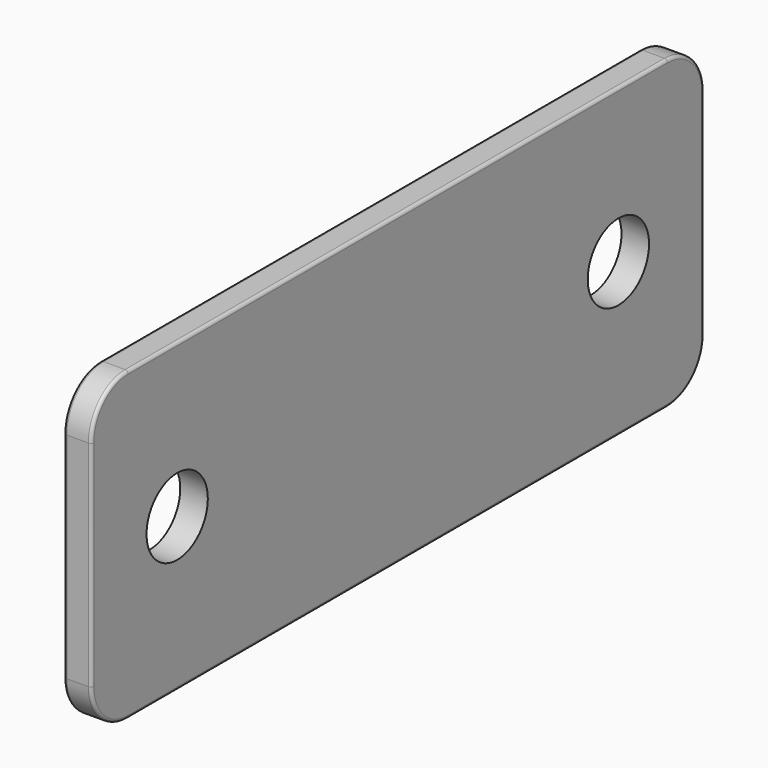
from build123d import *

# Parameters (mm, degrees)
F0_R     = 25
F1_DEPTH = 18
F2_R     = 2


with BuildPart() as f1:
    # F0 (on Right) → F1 (new body)
    with BuildSketch(Plane.YZ):
        with BuildLine():
            ThreePointArc((0, 30), (8.786797, 8.786797), (30, 0))
            Line((30, 0), (470, 0))
            ThreePointArc((470, 0), (491.213203, 8.786797), (500, 30))
            Line((500, 30), (500, 170))
            ThreePointArc((500, 170), (491.213203, 191.213203), (470, 200))
            Line((470, 200), (250, 200))
            Line((250, 200), (30, 200))
            ThreePointArc((30, 200), (8.786797, 191.213203), (0, 170))
            Line((0, 170), (0, 30))
        make_face()
        with Locations((70, 100)):
            Circle(F0_R, mode=Mode.SUBTRACT)
        with Locations((430, 100)):
            Circle(F0_R, mode=Mode.SUBTRACT)
    extrude(amount=F1_DEPTH)

    # F2
    f2_edges = [f1.edges().sort_by_distance(p)[0] for p in [
        (0, 250, 200),
        (18, 250, 200),
    ]]
    fillet(f2_edges, radius=F2_R)


solid = f1.part
